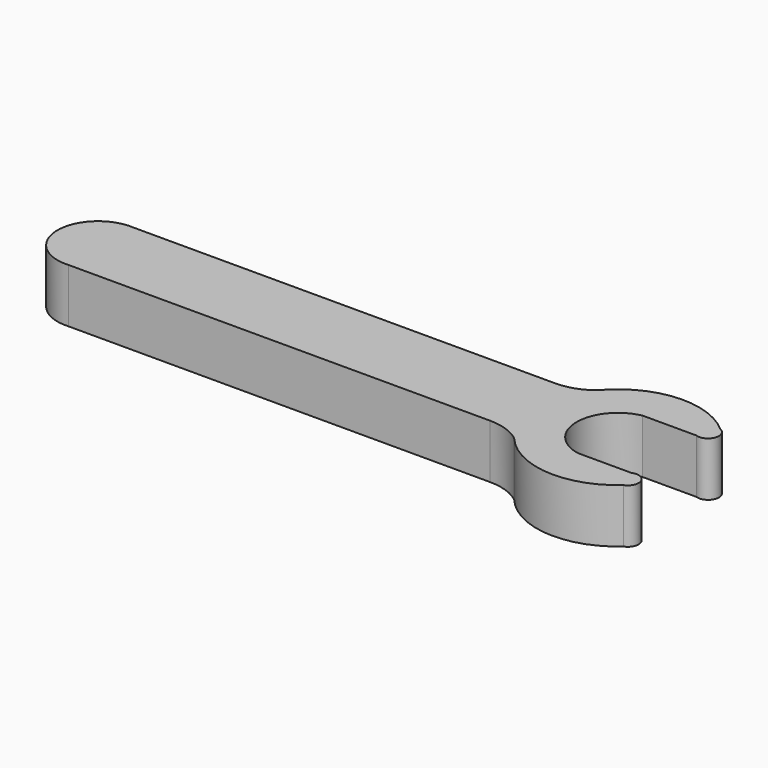
from build123d import *

# Parameters (mm, degrees)
F2_DEPTH = 6.35


with BuildPart() as f2:
    # F1 (on face) → F2 (new body)
    with BuildSketch(Plane.XY):
        with BuildLine():
            ThreePointArc((53.382808, 7.668722), (51.553248, 6.686388), (49.504595, 6.34684))
            Line((49.504595, 6.34684), (0, 6.34684))
            ThreePointArc((0, 6.34684), (-5.123236, 1.58434), (0, -3.17816))
            Line((0, -3.17816), (49.504595, -3.17816))
            ThreePointArc((49.504595, -3.17816), (51.553248, -3.517709), (53.382808, -4.500043))
            ThreePointArc((53.382808, -4.500043), (59.988382, -7.913192), (67.034426, -5.539068))
            ThreePointArc((67.034426, -5.539068), (67.787291, -3.876581), (66.101208, -3.17816))
            Line((66.101208, -3.17816), (59.8071, -3.17816))
            ThreePointArc((59.8071, -3.17816), (55.863676, 1.58434), (59.8071, 6.34684))
            Line((59.8071, 6.34684), (66.101208, 6.34684))
            ThreePointArc((66.101208, 6.34684), (67.7105, 7.075615), (67.034426, 8.707747))
            ThreePointArc((67.034426, 8.707747), (59.988382, 11.081871), (53.382808, 7.668722))
        make_face()
    extrude(amount=F2_DEPTH)


solid = f2.part
